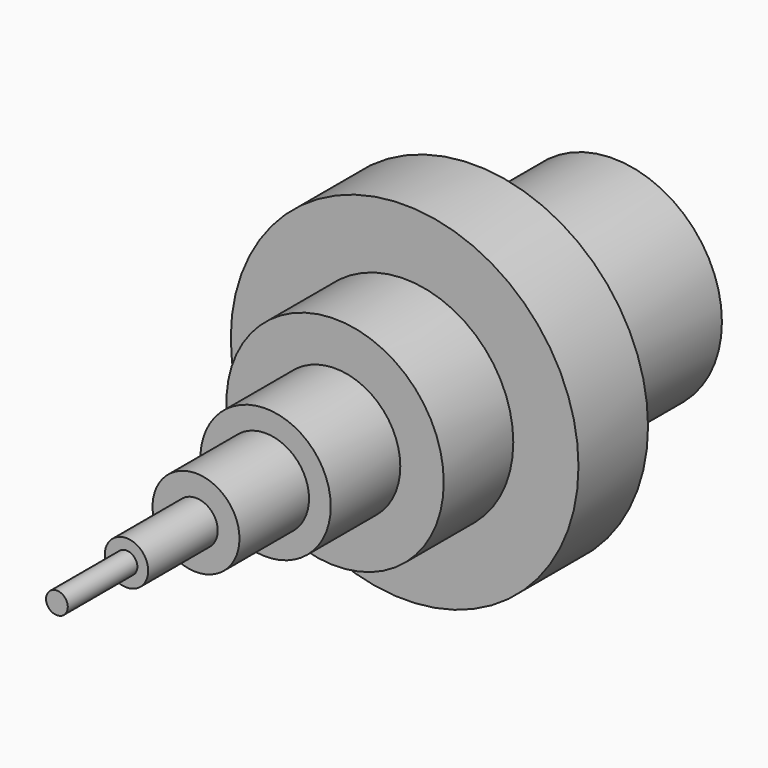
from build123d import *

# Parameters (mm, degrees)
F0_R      = 25
F1_DEPTH  = 20
F2_DEPTH  = 20
F3_R      = 40
F3_R_2    = 25
F4_DEPTH  = 20
F5_R      = 25
F6_DEPTH  = 20
F7_R      = 20
F8_DEPTH  = 40
F9_R      = 15
F10_DEPTH = 20
F11_R     = 10
F12_DEPTH = 20
F13_R     = 5
F14_DEPTH = 20
F15_R     = 2.5
F16_DEPTH = 20


with BuildPart() as f1:
    # F0 (on Front) → F1 (new body)
    with BuildSketch(Plane.XZ):
        Circle(F0_R)
    extrude(amount=F1_DEPTH)

    # F2 (add): a face of the model
    f2_faces = [f1.faces().sort_by_distance(p)[0] for p in [
        (0, 0, 0),
    ]]
    extrude(f2_faces, amount=F2_DEPTH)

    # F7 (on face) → F8 (cut)
    with BuildSketch(Plane(origin=(0, 20, 0), x_dir=(-1, 0, 0), z_dir=(0, 1, 0))):
        Circle(F7_R)
    extrude(amount=-F8_DEPTH, mode=Mode.SUBTRACT)


with BuildPart() as f4:
    # F3 (on face) → F4 (new body)
    with BuildSketch(Plane.XZ.offset(20)):
        Circle(F3_R)
        Circle(F3_R_2, mode=Mode.SUBTRACT)
    extrude(amount=F4_DEPTH)


with BuildPart() as f6:
    # F5 (on face) → F6 (new body)
    with BuildSketch(Plane.XZ.offset(40)):
        Circle(F5_R)
    extrude(amount=F6_DEPTH)

    # F9 (on face) → F10 (join)
    with BuildSketch(Plane.XZ.offset(60)):
        Circle(F9_R)
    extrude(amount=F10_DEPTH)

    # F11 (on face) → F12 (join)
    with BuildSketch(Plane.XZ.offset(80)):
        Circle(F11_R)
    extrude(amount=F12_DEPTH)

    # F13 (on face) → F14 (join)
    with BuildSketch(Plane.XZ.offset(100)):
        Circle(F13_R)
    extrude(amount=F14_DEPTH)

    # F15 (on face) → F16 (join)
    with BuildSketch(Plane.XZ.offset(120)):
        Circle(F15_R)
    extrude(amount=F16_DEPTH)


solid = Compound([f1.part, f4.part, f6.part])
